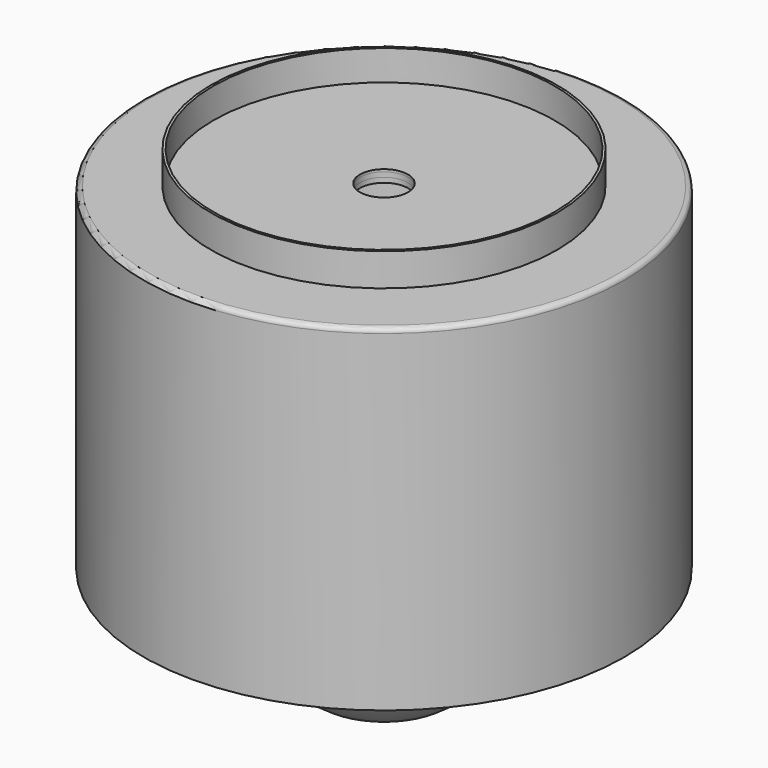
from build123d import *

# Parameters (mm, degrees)
F3_R = 1.5875


with BuildPart() as f1:
    # F0 (on Front) → F1 (revolve)
    with BuildSketch(Plane.XZ):
        with BuildLine():
            Line((0, -39.6875), (0, 39.6875))
            ThreePointArc((0, 39.6875), (-39.6875, 0), (0, -39.6875))
        make_face()
    revolve(axis=Axis((0, 0, 0), (0, 0, -1)))


with BuildPart() as f2:
    # F0 (on Front) → F2 (revolve)
    with BuildSketch(Plane.XZ):
        Polygon((-79.375, 0), (-77.7875, 0), (-77.7875, 109.5375), (-22.225, 109.5375), (-7.9375, 109.5375), (-7.9375, 111.125), (-57.15, 111.125), (-79.375, 111.125), align=None)
    revolve(axis=Axis((0, 0, 61.009362), (0, 0, 1)))

    # F3
    f3_edges = [f2.edges().sort_by_distance(p)[0] for p in [
        (79.375, 0, 111.125),
    ]]
    fillet(f3_edges, radius=F3_R)


with BuildPart() as f4:
    # F0 (on Front) → F4 (revolve)
    with BuildSketch(Plane.XZ):
        Polygon((-57.15, 121.92), (-57.15, 111.125), (-7.9375, 111.125), (-7.9375, 111.91875), (-56.35625, 111.91875), (-56.35625, 121.92), align=None)
    revolve(axis=Axis((0, 0, 61.009362), (0, 0, 1)))


with BuildPart() as f5:
    # F0 (on Front) → F5 (revolve)
    with BuildSketch(Plane.XZ):
        Polygon((-7.9375, 109.5375), (-22.225, 109.5375), (-22.225, 52.3875), (-20.6375, 52.3875), (-20.6375, 107.95), (-7.9375, 107.95), align=None)
    revolve(axis=Axis((0, 0, 61.009362), (0, 0, 1)))


solid = Compound([f1.part, f2.part, f4.part, f5.part])
